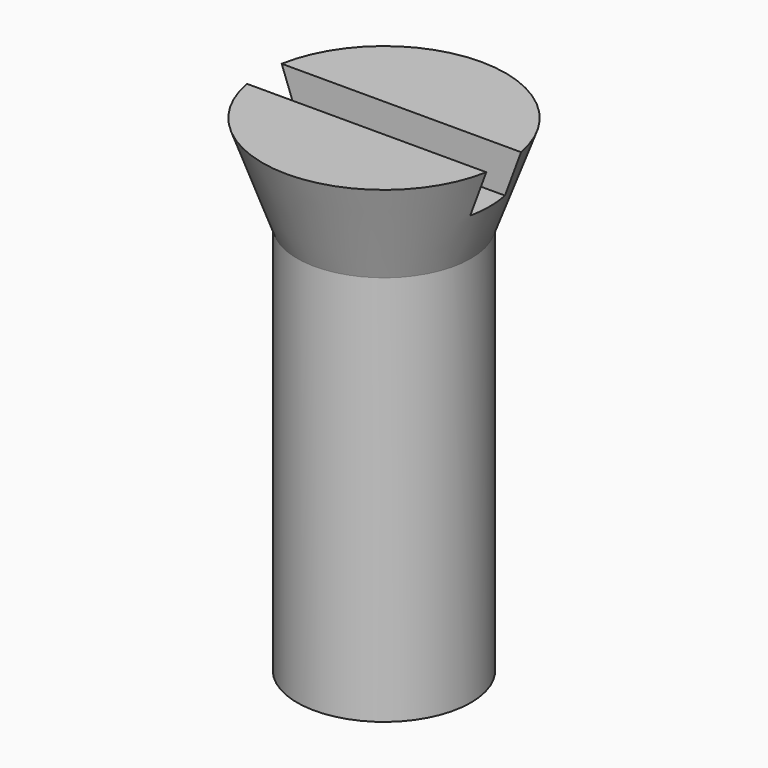
from build123d import *

# Parameters (mm, degrees)
BOX_W          = 10
BOX_H          = 1
BOX_DEPTH      = 1
CYLINDER_R     = 2
CYLINDER_DEPTH = 10


with BuildPart() as cub:
    # Box → Box (new body)
    with BuildSketch(Plane(origin=(-4, -0.5, 10.2), x_dir=(1, 0, 0), z_dir=(0, 0, 1))):
        with Locations((5, 0.5)):
            Rectangle(BOX_W, BOX_H)
    extrude(amount=BOX_DEPTH)


with BuildPart() as cut:
    # Cone → Cone (revolve)
    with BuildSketch(Plane(origin=(0, 0, 9), x_dir=(1, 0, 0), z_dir=(0, -1, 0))):
        Polygon((0, 0), (2, 0), (2.8, 2.2), (0, 2.2), align=None)
    revolve(axis=Axis((0, 0, 9), (0, 0, 1)))

    # Cut: cut Cub
    add(cub.part, mode=Mode.SUBTRACT)


with BuildPart() as obj1:
    # Cylinder → Cylinder (new body)
    with BuildSketch(Plane.XY):
        Circle(CYLINDER_R)
    extrude(amount=CYLINDER_DEPTH)

    # Fusion: union Cut
    add(cut.part)


solid = obj1.part
